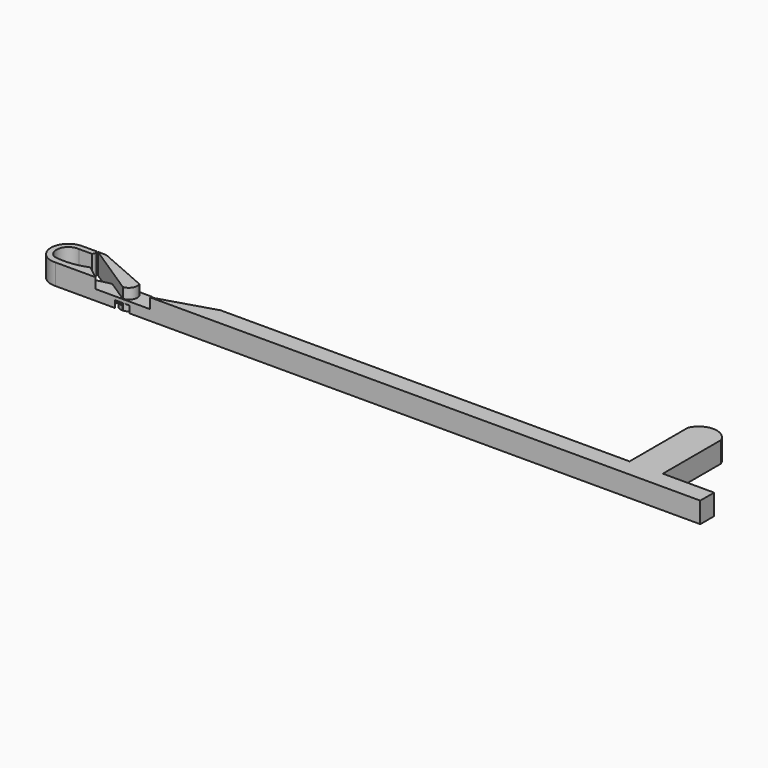
from build123d import *

# Parameters (mm, degrees)
PAD_DEPTH       = 3
PAD001_DEPTH    = 3
POCKET_DEPTH    = 1.5
SKETCH002_R     = 0.8
POCKET001_DEPTH = 1.501
SKETCH005_R     = 1.667622
POCKET002_DEPTH = 1
PAD002_DEPTH    = 3


with BuildPart() as revolution:
    # Sketch004 → Revolution (revolve)
    with BuildSketch(Plane(origin=(-71.264366, 1.281179, 0), x_dir=(1, 0, 0), z_dir=(0, -1, 0))):
        Polygon((0, 2), (0, 0), (1.2, 0), (1.2, 0.6), (0.6, 0.6), (0.6, 2), align=None)
    revolve(axis=Axis((-71.264366, 1.281179, 0), (0, 0, 1)))


with BuildPart() as pad:
    # Sketch → Pad (new body)
    with BuildSketch(Plane.XY):
        with BuildLine():
            Line((0, 0), (-80.8, 0))
            ThreePointArc((-80.8, 5), (-83.486472, 2.5), (-80.8, 0))
            Line((-80.8, 5), (-78.9, 5))
            ThreePointArc((-78.9, 4.2), (-78.769945, 4.6), (-78.9, 5))
            Line((-80.8, 4.2), (-78.9, 4.2))
            ThreePointArc((-80.8, 4.2), (-82.611686, 3.009902), (-81.8, 1))
            ThreePointArc((-81.8, 1), (-79.365861, 0.922269), (-77, 1.5))
            ThreePointArc((-69, 2.5), (-73.046199, 2.369595), (-77, 1.5))
            ThreePointArc((-69, 2.5), (-64, 1.924285), (-59, 2.5))
            Line((0, 2.5), (-59, 2.5))
            Line((0, 2.5), (0, 0))
        make_face()
    extrude(amount=PAD_DEPTH)


with BuildPart() as pocket002:
    # Sketch001 → Pad001 (new body)
    with BuildSketch(Plane.XY):
        with BuildLine():
            Line((0, 0), (0, 13))
            ThreePointArc((4.8, 13), (2.4, 14.6), (0, 13))
            Line((4.8, 13), (4.8, 2.5))
            Line((4.8, 2.5), (12.2, 2.5))
            Line((12.2, 2.5), (12.2, 0))
            Line((12.2, 0), (0, 0))
        make_face()
    extrude(amount=PAD001_DEPTH)

    # Fusion: union Pad
    add(pad.part)

    # Sketch003 → Pocket (cut)
    with BuildSketch(Plane.XY.offset(3)):
        with BuildLine():
            Line((-75.057068, 0), (-67.230911, 0))
            Line((-67.230911, 0), (-59, 2.5))
            ThreePointArc((-69, 2.5), (-64, 1.924285), (-59, 2.5))
            ThreePointArc((-69, 2.5), (-73.046199, 2.369595), (-77, 1.5))
            Line((-75.057068, 0), (-77, 1.5))
        make_face()
    extrude(amount=-POCKET_DEPTH, mode=Mode.SUBTRACT)

    # Sketch002 → Pocket001 (cut, through all)
    with BuildSketch(Plane.XY.offset(1.5)):
        with Locations((-71.264366, 1.281179)):
            Circle(SKETCH002_R)
    extrude(amount=-POCKET001_DEPTH, mode=Mode.SUBTRACT)

    # Sketch005 → Pocket002 (cut)
    with BuildSketch(Plane(origin=(0, 0, 0), x_dir=(1, 0, 0), z_dir=(0, 0, -1))):
        with Locations((-71.228622, -1.301967)):
            Circle(SKETCH005_R)
    extrude(amount=-POCKET002_DEPTH, mode=Mode.SUBTRACT)


with BuildPart() as pad002:
    # Sketch006 → Pad002 (new body)
    with BuildSketch(Plane.XY):
        with BuildLine():
            Line((-71.177252, 0.066992), (-78.704896, 5))
            Line((-78.704896, 5), (-77.504896, 5))
            Line((-77.504896, 5), (-70.174011, 1.797168))
            ThreePointArc((-71.177252, 0.066992), (-70.21136, 0.662873), (-70.174011, 1.797168))
        make_face()
    extrude(amount=PAD002_DEPTH)


solid = Compound([revolution.part, pocket002.part, pad002.part])
